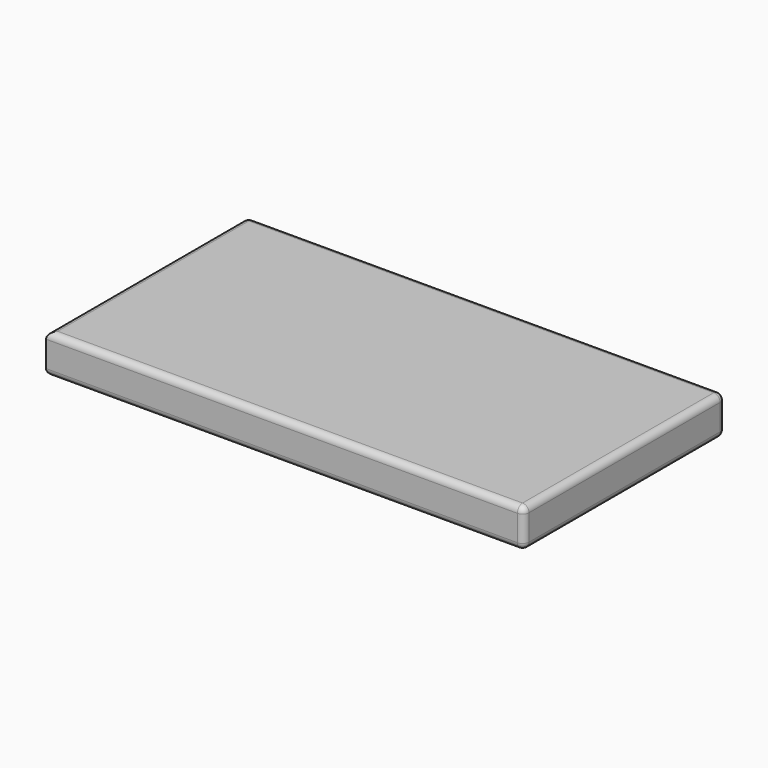
from build123d import *

# Parameters (mm, degrees)
F0_W     = 1879.6
F0_H     = 990.6
F1_DEPTH = 152.4
F2_R     = 25.4


with BuildPart() as f1:
    # F0 (on Top) → F1 (new body)
    with BuildSketch(Plane.XY):
        with Locations((1.889255, 20.264022)):
            Rectangle(F0_W, F0_H)
    extrude(amount=F1_DEPTH)

    # F2
    f2_edges = [f1.edges().sort_by_distance(p)[0] for p in [
        (-937.910745, 20.264022, 152.4),
        (1.889255, -475.035978, 152.4),
        (1.889255, 515.564022, 152.4),
        (941.689255, 20.264022, 152.4),
        (1.889255, -475.035978, 0),
        (-937.910745, 20.264022, 0),
        (1.889255, 515.564022, 0),
        (941.689255, 20.264022, 0),
        (941.689255, -475.035978, 76.2),
        (941.689255, 515.564022, 76.2),
        (-937.910745, 515.564022, 76.2),
    ]]
    fillet(f2_edges, radius=F2_R)


solid = f1.part
